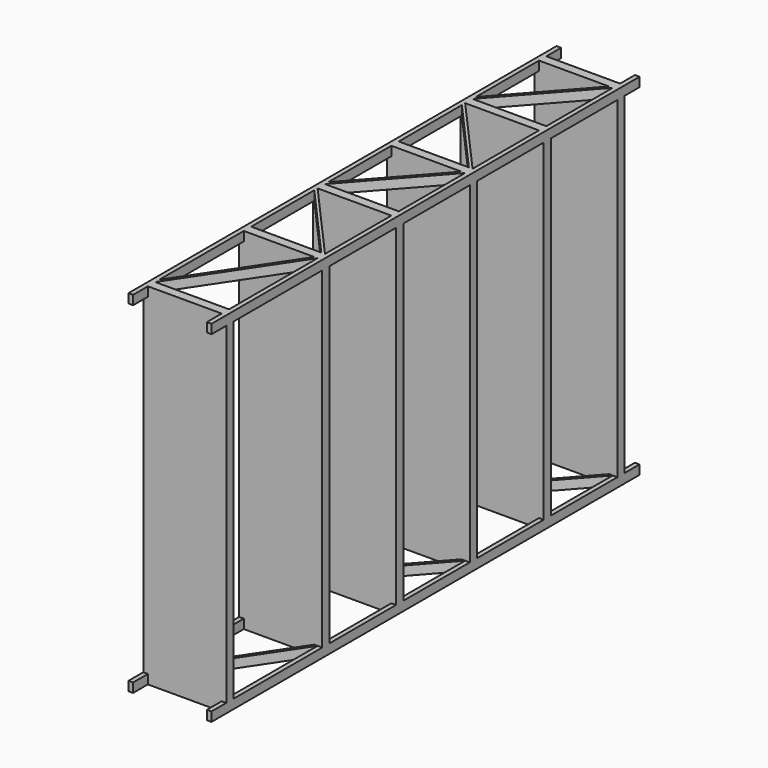
from build123d import *

# Parameters (mm, degrees)
F0_W     = 450
F0_H     = 2900
F1_DEPTH = 1900
F2_W     = 100
F2_H     = 1800
F2_W_2   = 600
F2_W_3   = 450
F3_DEPTH = 450
F4_W     = 400
F4_H     = 100
F5_DEPTH = 2900


with BuildPart() as f1:
    # F0 (on Top) → F1 (new body)
    with BuildSketch(Plane.XY):
        with Locations((-225, 1450)):
            Rectangle(F0_W, F0_H)
    extrude(amount=F1_DEPTH)

    # F2 (on face) → F3 (cut)
    with BuildSketch(Plane.YZ):
        with Locations((50, 950)):
            Rectangle(F2_W, F2_H)
        with Locations((450, 950)):
            Rectangle(F2_W_2, F2_H)
        with Locations((1025, 950)):
            Rectangle(F2_W_3, F2_H)
        with Locations((1525, 950)):
            Rectangle(F2_W_3, F2_H)
        with Locations((2025, 950)):
            Rectangle(F2_W_3, F2_H)
        with Locations((2525, 950)):
            Rectangle(F2_W_3, F2_H)
        with Locations((2850, 950)):
            Rectangle(F2_W, F2_H)
    extrude(amount=-F3_DEPTH, mode=Mode.SUBTRACT)

    # F4 (on face) → F5 (cut)
    with BuildSketch(Plane(origin=(0, 0, 0), x_dir=(1, 0, 0), z_dir=(0, 0, -1))):
        with Locations((-225, -50)):
            Rectangle(F4_W, F4_H)
        Polygon((-25, -150), (-425, -150), (-25, -750), align=None)
        Polygon((-425, -177.041635), (-425, -750), (-43.027756, -750), align=None)
        Polygon((-45.069324, -800), (-425, -800), (-425, -1227.42201), align=None)
        Polygon((-25, -800), (-425, -1250), (-25, -1250), align=None)
        Polygon((-25, -1300), (-425, -1300), (-25, -1750), align=None)
        Polygon((-425, -1322.57799), (-425, -1750), (-45.069324, -1750), align=None)
        Polygon((-45.069324, -1800), (-425, -1800), (-425, -2227.42201), align=None)
        Polygon((-25, -1800), (-425, -2250), (-25, -2250), align=None)
        Polygon((-425, -2322.57799), (-425, -2750), (-45.069324, -2750), align=None)
        Polygon((-25, -2300), (-425, -2300), (-25, -2750), align=None)
        with Locations((-225, -2850)):
            Rectangle(F4_W, F4_H)
    extrude(amount=-F5_DEPTH, mode=Mode.SUBTRACT)


solid = f1.part
